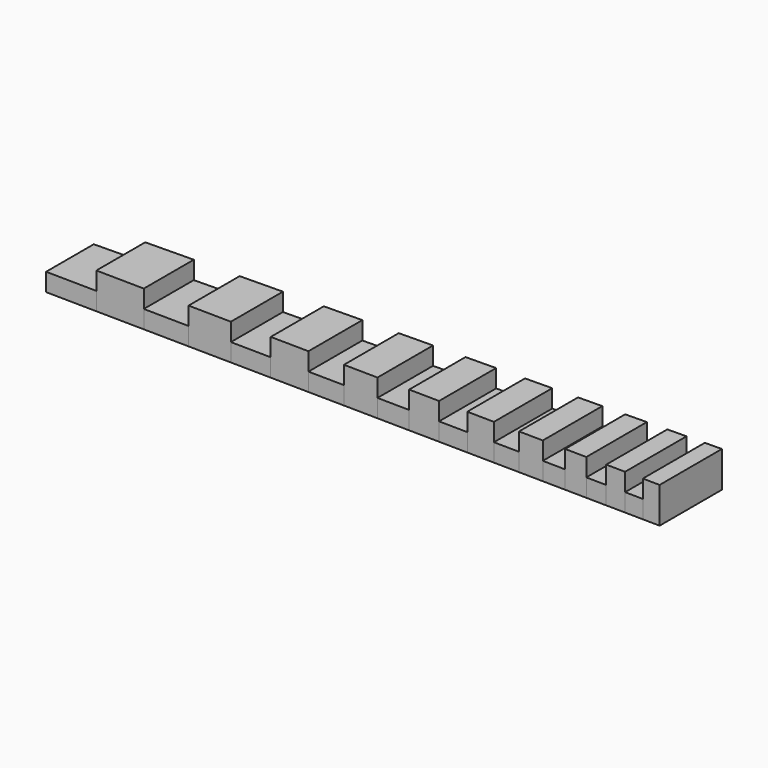
from build123d import *

# Parameters (mm, degrees)
F1_DEPTH = 25.4
F2_DEPTH = 12.7


with BuildPart() as f1:
    # F0 (on Top) → F1 (new body)
    with BuildSketch(Plane.XY):
        Polygon((-153.35019981, 21.6126069839), (-153.35019981, 0), (-119.36499981, 0), (-119.36499981, 22.1136317859), align=None)
        Polygon((-119.36499981, 0), (-153.35019981, 0), (-153.35019981, -21.6126069839), (-119.36499981, -22.1136317859), align=None)
    extrude(amount=F1_DEPTH)


with BuildPart() as f1b:
    # F0 (on Top) → F1, piece 2 (new body)
    with BuildSketch(Plane.XY):
        Polygon((-87.31019981, 22.58619778), (-87.31019981, 0), (-57.03339981, 0), (-57.03339981, 23.0325517142), align=None)
        Polygon((-57.03339981, 0), (-87.31019981, 0), (-87.31019981, -22.58619778), (-57.03339981, -23.0325517142), align=None)
    extrude(amount=F1_DEPTH)


with BuildPart() as f1c:
    # F0 (on Top) → F1, piece 3 (new body)
    with BuildSketch(Plane.XY):
        Polygon((-28.45839981, 23.4538169625), (-28.45839981, 0), (-1.48359981, 0), (-1.48359981, 23.8514913569), align=None)
        Polygon((-1.48359981, 0), (-28.45839981, 0), (-28.45839981, -23.4538169625), (-1.48359981, -23.8514913569), align=None)
    extrude(amount=F1_DEPTH)


with BuildPart() as f1d:
    # F0 (on Top) → F1, piece 4 (new body)
    with BuildSketch(Plane.XY):
        Polygon((23.96720019, 24.2266982714), (23.96720019, 0), (47.97020019, 0), (47.97020019, 24.58056108), align=None)
        Polygon((47.97020019, 0), (23.96720019, 0), (23.96720019, -24.2266982714), (47.97020019, -24.58056108), align=None)
    extrude(amount=F1_DEPTH)


with BuildPart() as f1e:
    # F0 (on Top) → F1, piece 5 (new body)
    with BuildSketch(Plane.XY):
        Polygon((70.65240019, 24.9149520726), (70.65240019, 0), (92.06460019, 0), (92.06460019, 25.2306201653), align=None)
        Polygon((92.06460019, 0), (70.65240019, 0), (70.65240019, -24.9149520726), (92.06460019, -25.2306201653), align=None)
    extrude(amount=F1_DEPTH)


with BuildPart() as f1f:
    # F0 (on Top) → F1, piece 6 (new body)
    with BuildSketch(Plane.XY):
        Polygon((112.25760019, 25.5283142742), (112.25760019, 0), (131.33300019, 0), (131.33300019, 25.809532231), align=None)
        Polygon((131.33300019, 0), (112.25760019, 0), (112.25760019, -25.5283142742), (131.33300019, -25.809532231), align=None)
    extrude(amount=F1_DEPTH)


with BuildPart() as f1g:
    # F0 (on Top) → F1, piece 7 (new body)
    with BuildSketch(Plane.XY):
        Polygon((149.34160019, 26.075022952), (149.34160019, 0), (166.33420019, 0), (166.33420019, 26.325535353), align=None)
        Polygon((166.33420019, 0), (149.34160019, 0), (149.34160019, -26.075022952), (166.33420019, -26.325535353), align=None)
    extrude(amount=F1_DEPTH)


with BuildPart() as f1h:
    # F0 (on Top) → F1, piece 8 (new body)
    with BuildSketch(Plane.XY):
        Polygon((182.36160019, 26.56181835), (182.36160019, 0), (197.50000019, 0), (197.50000019, 26.7849953171), align=None)
        Polygon((197.50000019, 0), (182.36160019, 0), (182.36160019, -26.56181835), (197.50000019, -26.7849953171), align=None)
    extrude(amount=F1_DEPTH)


with BuildPart() as f1i:
    # F0 (on Top) → F1, piece 9 (new body)
    with BuildSketch(Plane.XY):
        Polygon((211.77480019, 26.9954407123), (211.77480019, 0), (225.26220019, 0), (225.26220019, 27.1942779095), align=None)
        Polygon((225.26220019, 0), (211.77480019, 0), (211.77480019, -26.9954407123), (225.26220019, -27.1942779095), align=None)
    extrude(amount=F1_DEPTH)


with BuildPart() as f1j:
    # F0 (on Top) → F1, piece 10 (new body)
    with BuildSketch(Plane.XY):
        Polygon((237.98760019, 27.3818813667), (237.98760019, 0), (250.00180019, 0), (250.00180019, 27.559), align=None)
        Polygon((250.00180019, 0), (237.98760019, 0), (237.98760019, -27.3818813667), (250.00180019, -27.559), align=None)
    extrude(amount=F1_DEPTH)


with BuildPart() as f2:
    # F0 (on Top) → F2 (new body)
    with BuildSketch(Plane.XY):
        Polygon((-189.34199981, 21.082), (-189.34199981, 0), (-153.35019981, 0), (-153.35019981, 21.6126069839), align=None)
        Polygon((-153.35019981, 0), (-189.34199981, 0), (-189.34199981, -21.082), (-153.35019981, -21.6126069839), align=None)
    extrude(amount=F2_DEPTH)


with BuildPart() as f2b:
    # F0 (on Top) → F2, piece 2 (new body)
    with BuildSketch(Plane.XY):
        Polygon((-119.36499981, 22.1136317859), (-119.36499981, 0), (-87.31019981, 0), (-87.31019981, 22.58619778), align=None)
        Polygon((-87.31019981, 0), (-119.36499981, 0), (-119.36499981, -22.1136317859), (-87.31019981, -22.58619778), align=None)
    extrude(amount=F2_DEPTH)


with BuildPart() as f2c:
    # F0 (on Top) → F2, piece 3 (new body)
    with BuildSketch(Plane.XY):
        Polygon((-57.03339981, 23.0325517142), (-57.03339981, 0), (-28.45839981, 0), (-28.45839981, 23.4538169625), align=None)
        Polygon((-28.45839981, 0), (-57.03339981, 0), (-57.03339981, -23.0325517142), (-28.45839981, -23.4538169625), align=None)
    extrude(amount=F2_DEPTH)


with BuildPart() as f2d:
    # F0 (on Top) → F2, piece 4 (new body)
    with BuildSketch(Plane.XY):
        Polygon((-1.48359981, 23.8514913569), (-1.48359981, 0), (23.96720019, 0), (23.96720019, 24.2266982714), align=None)
        Polygon((23.96720019, 0), (-1.48359981, 0), (-1.48359981, -23.8514913569), (23.96720019, -24.2266982714), align=None)
    extrude(amount=F2_DEPTH)


with BuildPart() as f2e:
    # F0 (on Top) → F2, piece 5 (new body)
    with BuildSketch(Plane.XY):
        Polygon((47.97020019, 24.58056108), (47.97020019, 0), (70.65240019, 0), (70.65240019, 24.9149520726), align=None)
        Polygon((70.65240019, 0), (47.97020019, 0), (47.97020019, -24.58056108), (70.65240019, -24.9149520726), align=None)
    extrude(amount=F2_DEPTH)


with BuildPart() as f2f:
    # F0 (on Top) → F2, piece 6 (new body)
    with BuildSketch(Plane.XY):
        Polygon((92.06460019, 25.2306201653), (92.06460019, 0), (112.25760019, 0), (112.25760019, 25.5283142742), align=None)
        Polygon((112.25760019, 0), (92.06460019, 0), (92.06460019, -25.2306201653), (112.25760019, -25.5283142742), align=None)
    extrude(amount=F2_DEPTH)


with BuildPart() as f2g:
    # F0 (on Top) → F2, piece 7 (new body)
    with BuildSketch(Plane.XY):
        Polygon((131.33300019, 25.809532231), (131.33300019, 0), (149.34160019, 0), (149.34160019, 26.075022952), align=None)
        Polygon((149.34160019, 0), (131.33300019, 0), (131.33300019, -25.809532231), (149.34160019, -26.075022952), align=None)
    extrude(amount=F2_DEPTH)


with BuildPart() as f2h:
    # F0 (on Top) → F2, piece 8 (new body)
    with BuildSketch(Plane.XY):
        Polygon((166.33420019, 26.325535353), (166.33420019, 0), (182.36160019, 0), (182.36160019, 26.56181835), align=None)
        Polygon((182.36160019, 0), (166.33420019, 0), (166.33420019, -26.325535353), (182.36160019, -26.56181835), align=None)
    extrude(amount=F2_DEPTH)


with BuildPart() as f2i:
    # F0 (on Top) → F2, piece 9 (new body)
    with BuildSketch(Plane.XY):
        Polygon((197.50000019, 26.7849953171), (197.50000019, 0), (211.77480019, 0), (211.77480019, 26.9954407123), align=None)
        Polygon((211.77480019, 0), (197.50000019, 0), (197.50000019, -26.7849953171), (211.77480019, -26.9954407123), align=None)
    extrude(amount=F2_DEPTH)


with BuildPart() as f2j:
    # F0 (on Top) → F2, piece 10 (new body)
    with BuildSketch(Plane.XY):
        Polygon((225.26220019, 27.1942779095), (225.26220019, 0), (237.98760019, 0), (237.98760019, 27.3818813667), align=None)
        Polygon((237.98760019, 0), (225.26220019, 0), (225.26220019, -27.1942779095), (237.98760019, -27.3818813667), align=None)
    extrude(amount=F2_DEPTH)


solid = Compound([f1.part, f1b.part, f1c.part, f1d.part, f1e.part, f1f.part, f1g.part, f1h.part, f1i.part, f1j.part, f2.part, f2b.part, f2c.part, f2d.part, f2e.part, f2f.part, f2g.part, f2h.part, f2i.part, f2j.part])
